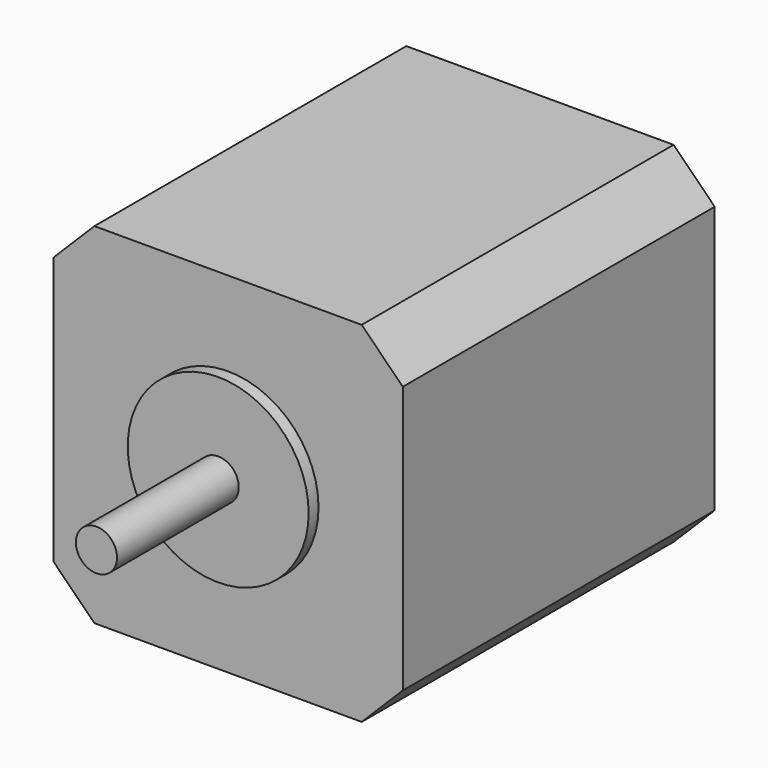
from build123d import *

# Parameters (mm, degrees)
SKETCH005_W     = 42.5
SKETCH005_H     = 42.5
PAD002_DEPTH    = 47.4
CHAMFER_SIZE    = 5
CHAMFER001_SIZE = 5
CHAMFER002_SIZE = 5
CHAMFER003_SIZE = 5
SKETCH034_R     = 11
PAD007_DEPTH    = 1.5
SKETCH035_R     = 2.5
PAD008_DEPTH    = 18.5


with BuildPart() as part:
    # Sketch005 → Pad002 (new body)
    with BuildSketch(Plane.XZ):
        Rectangle(SKETCH005_W, SKETCH005_H)
    extrude(amount=-PAD002_DEPTH)

    # Chamfer
    chamfer_edges = [part.edges().sort_by_distance(p)[0] for p in [
        (21.25, 23.7, 21.25),
    ]]
    chamfer(chamfer_edges, length=CHAMFER_SIZE)

    # Chamfer001
    chamfer001_edges = [part.edges().sort_by_distance(p)[0] for p in [
        (-21.25, 23.7, 21.25),
    ]]
    chamfer(chamfer001_edges, length=CHAMFER001_SIZE)

    # Chamfer002
    chamfer002_edges = [part.edges().sort_by_distance(p)[0] for p in [
        (21.25, 23.7, -21.25),
    ]]
    chamfer(chamfer002_edges, length=CHAMFER002_SIZE)

    # Chamfer003
    chamfer003_edges = [part.edges().sort_by_distance(p)[0] for p in [
        (-21.25, 23.7, -21.25),
    ]]
    chamfer(chamfer003_edges, length=CHAMFER003_SIZE)

    # Sketch034 (on Face1 of Chamfer003) → Pad007 (join)
    with BuildSketch(Plane.XZ):
        Circle(SKETCH034_R)
    extrude(amount=PAD007_DEPTH)

    # Sketch035 (on Face12 of Pad007) → Pad008 (join)
    with BuildSketch(Plane.XZ.offset(1.5)):
        Circle(SKETCH035_R)
    extrude(amount=PAD008_DEPTH)


with BuildPart() as part_1:
    # Body002 placement: moved
    add(part.part.moved(Location((0, 2.25, 150))))


solid = part_1.part
